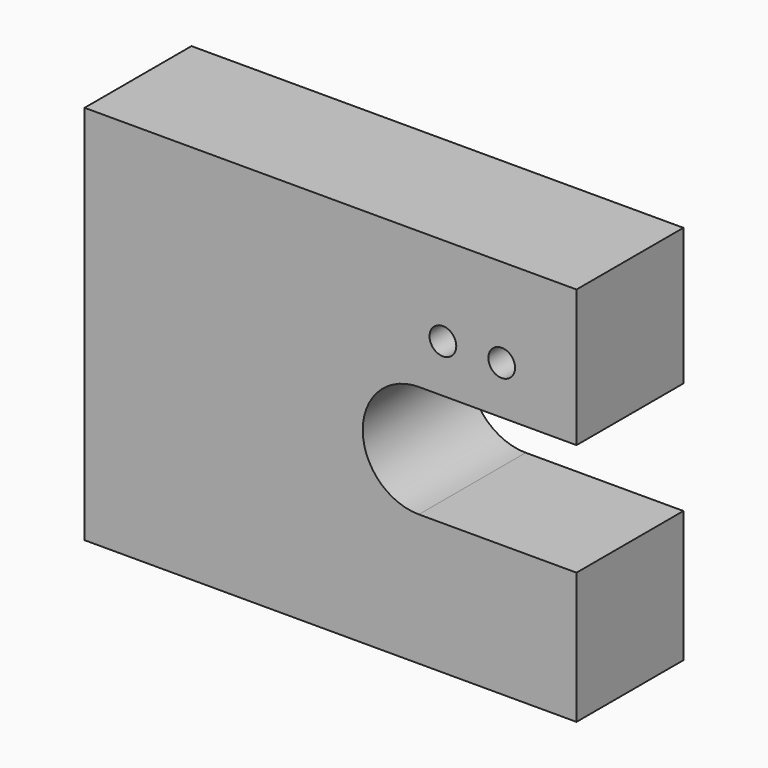
from build123d import *

# Parameters (mm, degrees)
F0_R     = 2.5
F1_DEPTH = 25


with BuildPart() as f1:
    # F0 (on Front) → F1 (new body)
    with BuildSketch(Plane.XZ):
        with BuildLine():
            ThreePointArc((0, -10.5), (-10.5, 0), (0, 10.5))
            Line((0, 10.5), (29.5, 10.5))
            Line((29.5, 10.5), (29.5, 36.144238))
            Line((29.5, 36.144238), (-62.545855, 36.144238))
            Line((-62.545855, 36.144238), (-62.545855, -35.087228))
            Line((-62.545855, -35.087228), (29.5, -35.087228))
            Line((29.5, -35.087228), (29.5, -10.5))
            Line((29.5, -10.5), (0, -10.5))
        make_face()
        with Locations((4.5, 19.5)):
            Circle(F0_R, mode=Mode.SUBTRACT)
        with Locations((15.5, 19.5)):
            Circle(F0_R, mode=Mode.SUBTRACT)
    extrude(amount=F1_DEPTH)


solid = f1.part
